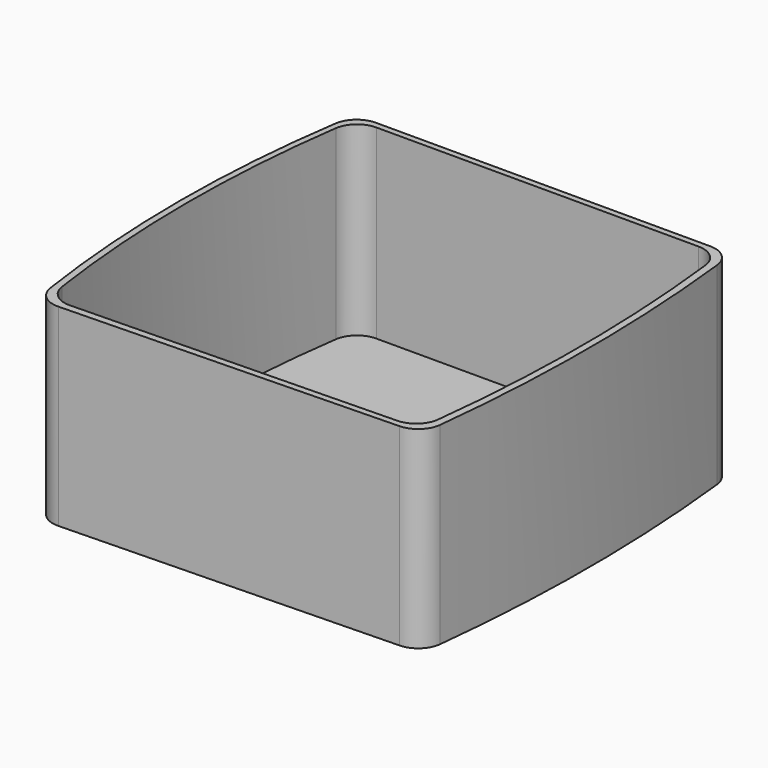
from build123d import *

# Parameters (mm, degrees)
PAD_DEPTH    = 80
POCKET_DEPTH = 77
FILLET_R     = 10
FILLET001_R  = 10


with BuildPart() as part:
    # Sketch → Pad (new body)
    with BuildSketch(Plane.XY):
        with BuildLine():
            ThreePointArc((78, -80.5), (83, 0), (78, 80.5))
            Line((78, 80.5), (-78, 80.5))
            ThreePointArc((-78, 80.5), (-84.853217, -2), (-78, -84.5))
            Line((-78, -84.5), (78, -80.5))
        make_face()
    extrude(amount=PAD_DEPTH)

    # Sketch001 (on Face6 of Pad) → Pocket (cut)
    with BuildSketch(Plane.XY.offset(80)):
        with BuildLine():
            Line((-75.633377, -81.450424), (75.073144, -78))
            ThreePointArc((75.073144, -78), (80.164748, 0), (75.073144, 78))
            Line((-75.914692, 78), (75.073144, 78))
            ThreePointArc((-75.914692, 78), (-82.171076, -1.736498), (-75.633377, -81.450424))
        make_face()
    extrude(amount=-POCKET_DEPTH, mode=Mode.SUBTRACT)

    # Fillet
    fillet_edges = [part.edges().sort_by_distance(p)[0] for p in [
        (-75.914692, 78, 41.5),
        (75.073144, 78, 41.5),
        (-75.633377, -81.450424, 41.5),
        (75.073144, -78, 41.5),
    ]]
    fillet(fillet_edges, radius=FILLET_R)

    # Fillet001
    fillet001_edges = [part.edges().sort_by_distance(p)[0] for p in [
        (78, 80.5, 40),
        (78, -80.5, 40),
        (-78, 80.5, 40),
        (-78, -84.5, 40),
    ]]
    fillet(fillet001_edges, radius=FILLET001_R)


solid = part.part
